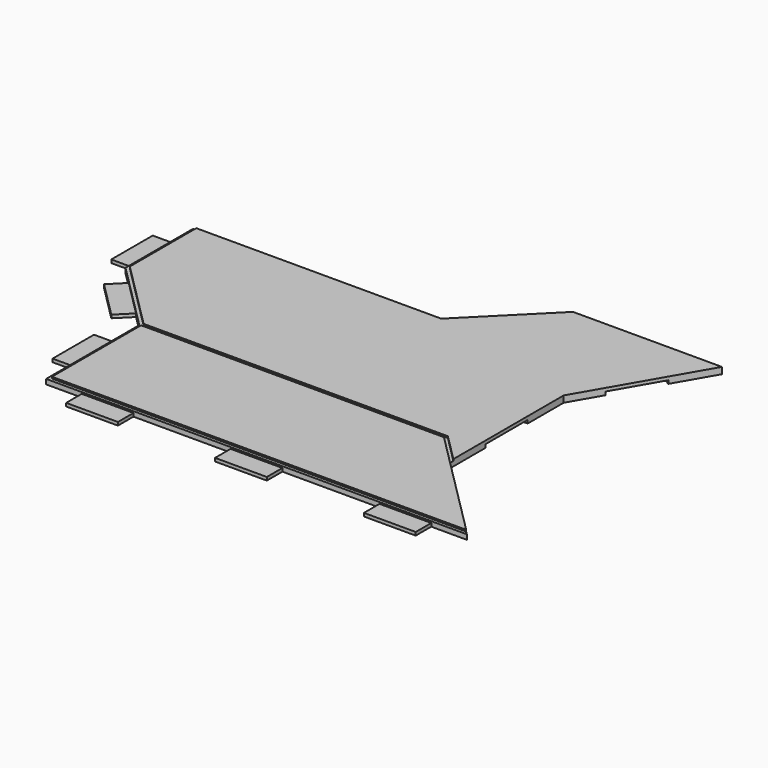
from build123d import *

# Parameters (mm, degrees)
PAD025_DEPTH    = 1
SKETCH038_W     = 8.1
SKETCH038_H     = 3.05
SKETCH038_W_2   = 3.05
SKETCH038_H_2   = 8.1
POCKET013_DEPTH = 0.5
POCKET014_DEPTH = 0.25
POCKET015_DEPTH = 0.25
SKETCH041_W     = 8
SKETCH041_H     = 3
SKETCH041_W_2   = 3
SKETCH041_H_2   = 8
PAD026_DEPTH    = 0.5


with BuildPart() as part:
    # Sketch037 (on Face2 of Binder012) → Pad025 (new body)
    with BuildSketch(Plane(origin=(0, 0, -13), x_dir=(1, 0, 0), z_dir=(0, 0, -1))):
        Polygon((75, -58.333333), (52, -58.333333), (40.686291501, -47.019624501), (2.352991501, -47.019624501), (2.352991501, -33.980341499), (13, -23.333333), (13, -5.333333), (78, -5.333333), (64.751288694, -18.582044306), (64.751288694, -40.582044306), align=None)
    extrude(amount=-PAD025_DEPTH)

    # Sketch038 (on Face11 of Pad025) → Pocket013 (cut)
    with BuildSketch(Plane(origin=(0, 0, -13), x_dir=(1, 0, 0), z_dir=(0, 0, -1))):
        with Locations((13.677991501, -45.494624501)):
            Rectangle(SKETCH038_W, SKETCH038_H)
        with Locations((32.686291501, -45.494624501)):
            Rectangle(SKETCH038_W, SKETCH038_H)
        with Locations((63.226288694, -29.582044306)):
            Rectangle(SKETCH038_W_2, SKETCH038_H_2)
        Polygon((74.6861389697, -8.6471940303), (68.9585740421, -14.3747589579), (66.8018983595, -12.2180832753), (72.5294632871, -6.4905183477), align=None)
        Polygon((67.475, -45.299650673), (71.525, -52.3144564437), (68.8836225185, -53.8394564437), (64.8336225185, -46.824650673), align=None)
        Polygon((49.2069282143, -55.5402612143), (43.4793632867, -49.8126962867), (45.6360389693, -47.6560206041), (51.3636038969, -53.3835855317), align=None)
        with Locations((59.5, -56.808333)):
            Rectangle(SKETCH038_W, SKETCH038_H)
    extrude(amount=-POCKET013_DEPTH, mode=Mode.SUBTRACT)

    # Sketch039 (on Face7 of Pocket013) → Pocket014 (cut)
    with BuildSketch(Plane.XY.offset(-12)):
        Polygon((2.352991501, 47.019624501), (2.352991501, 33.980341499), (13, 23.333333), (13, 5.333333), (78, 5.333333), (77.5, 5.833333), (13.5, 5.833333), (13.5, 23.5404397812), (2.852991501, 34.1874482802), (2.852991501, 47.019624501), align=None)
    extrude(amount=-POCKET014_DEPTH, mode=Mode.SUBTRACT)

    # Sketch040 (on Face7 of Pocket014) → Pocket015 (cut)
    with BuildSketch(Plane.XY.offset(-12)):
        Polygon((64.751288694, 19.2891510872), (60.5, 23.5404397812), (13.5, 23.5404397812), (13.5, 23.0404397812), (60.2928932188, 23.0404397812), (64.751288694, 18.582044306), align=None)
    extrude(amount=-POCKET015_DEPTH, mode=Mode.SUBTRACT)

    # Sketch041 (on Face2 of Pocket015) → Pad026 (join)
    with BuildSketch(Plane(origin=(0, 0, -13), x_dir=(1, 0, 0), z_dir=(0, 0, -1))):
        with Locations((68.5, -3.833333)):
            Rectangle(SKETCH041_W, SKETCH041_H)
        with Locations((45.5, -3.833333)):
            Rectangle(SKETCH041_W, SKETCH041_H)
        with Locations((22.5, -3.833333)):
            Rectangle(SKETCH041_W, SKETCH041_H)
        with Locations((11.5, -14.333333)):
            Rectangle(SKETCH041_W_2, SKETCH041_H_2)
        with Locations((0.852991501, -38.980341499)):
            Rectangle(SKETCH041_W_2, SKETCH041_H_2)
        Polygon((4.8278652352, -31.5054677648), (10.4847194847, -25.8486135153), (8.3633991411, -23.7272931718), (2.7065448916, -29.3841474213), align=None)
    extrude(amount=-PAD026_DEPTH)


solid = part.part
